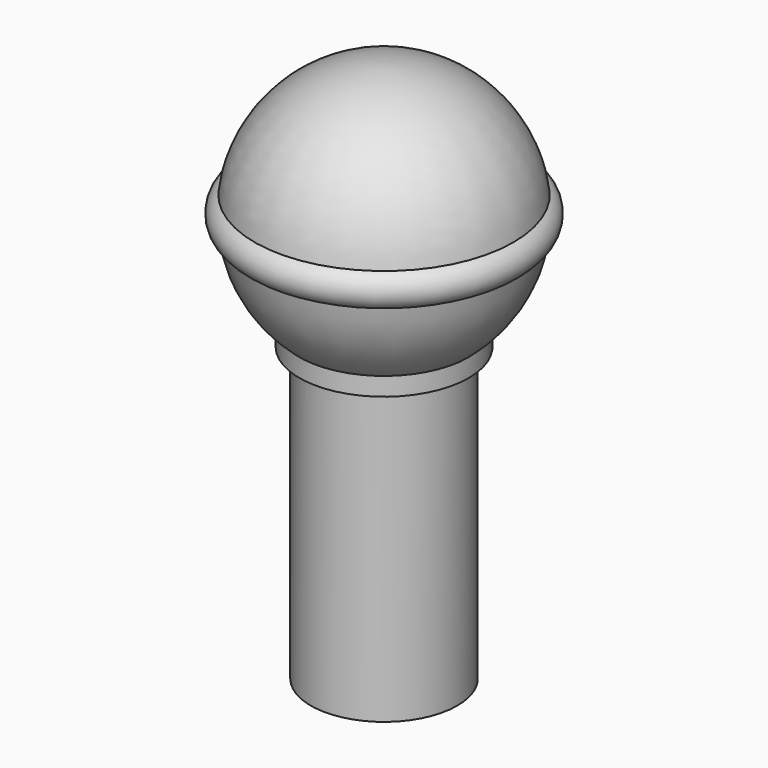
from build123d import *


with BuildPart() as f1:
    # F0 (on Front) → F1 (revolve)
    with BuildSketch(Plane.XZ):
        with BuildLine():
            Line((1.85, 6.382052), (1.85, 6.782052))
            ThreePointArc((1.85, 6.782052), (2.507572, 7.595533), (2.827358, 8.59147))
            ThreePointArc((2.827358, 8.59147), (3.05, 8.95), (2.827358, 9.30853))
            ThreePointArc((2.827358, 9.30853), (1.884236, 11.08826), (0, 11.8))
            Line((0, 11.8), (0, 0))
            Line((0, 0), (1.6, 0))
            Line((1.6, 0), (1.6, 6.382052))
            Line((1.6, 6.382052), (1.85, 6.382052))
        make_face()
    revolve(axis=Axis((0, 0, 8.428195), (0, 0, 1)))


solid = f1.part
